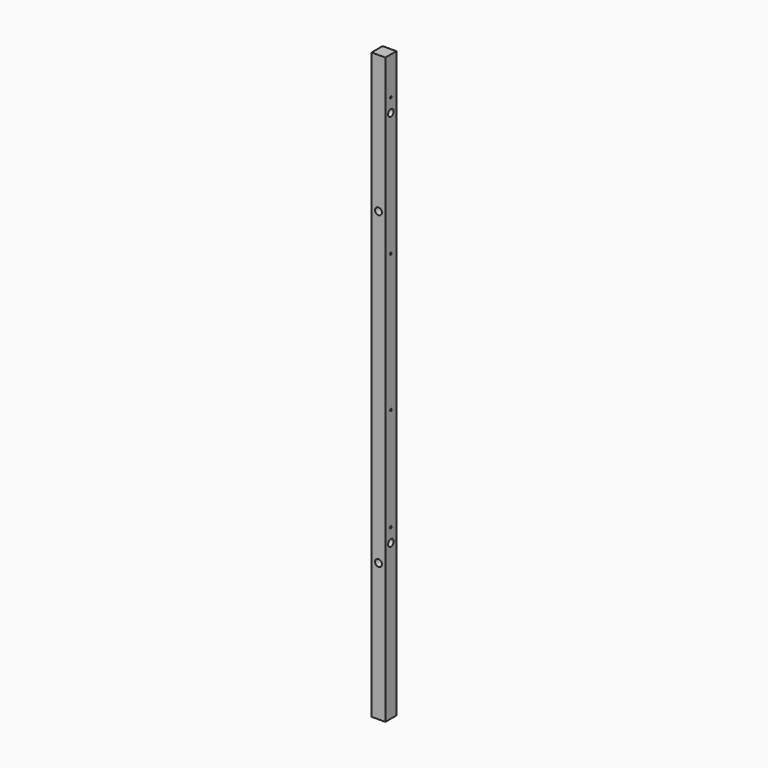
from build123d import *

# Parameters (mm, degrees)
F0_W     = 40
F0_H     = 1700
F0_R     = 10
F1_DEPTH = 40
F7_R     = 10
F2_DEPTH = 40.001
F3_DEPTH = 40.001
F7_R_2   = 3
F4_DEPTH = 25
F8_DEPTH = 25
F5_DEPTH = 25
F6_DEPTH = 25


with BuildPart() as f1:
    # F0 (on Front) → F1 (new body)
    with BuildSketch(Plane.XZ):
        with Locations((-20, 850)):
            Rectangle(F0_W, F0_H)
        with Locations((-20, 400)):
            Circle(F0_R, mode=Mode.SUBTRACT)
        with Locations((-20, 1300)):
            Circle(F0_R, mode=Mode.SUBTRACT)
    extrude(amount=F1_DEPTH)

    # F7 (on face) → F2 (cut, through all)
    with BuildSketch(Plane.YZ):
        with Locations((-20, 450)):
            Circle(F7_R)
    extrude(amount=-F2_DEPTH, mode=Mode.SUBTRACT)

    # F7 (on face) → F3 (cut, through all)
    with BuildSketch(Plane.YZ):
        with Locations((-20, 1550)):
            Circle(F7_R)
    extrude(amount=-F3_DEPTH, mode=Mode.SUBTRACT)

    # F7 (on face) → F4 (cut)
    with BuildSketch(Plane.YZ):
        with Locations((-20, 490)):
            Circle(F7_R_2)
    extrude(amount=-F4_DEPTH, mode=Mode.SUBTRACT)

    # F7 (on face) → F8 (cut)
    with BuildSketch(Plane.YZ):
        with Locations((-20, 790)):
            Circle(F7_R_2)
    extrude(amount=-F8_DEPTH, mode=Mode.SUBTRACT)

    # F7 (on face) → F5 (cut)
    with BuildSketch(Plane.YZ):
        with Locations((-20, 1190)):
            Circle(F7_R_2)
    extrude(amount=-F5_DEPTH, mode=Mode.SUBTRACT)

    # F7 (on face) → F6 (cut)
    with BuildSketch(Plane.YZ):
        with Locations((-20, 1590)):
            Circle(F7_R_2)
    extrude(amount=-F6_DEPTH, mode=Mode.SUBTRACT)


solid = f1.part
